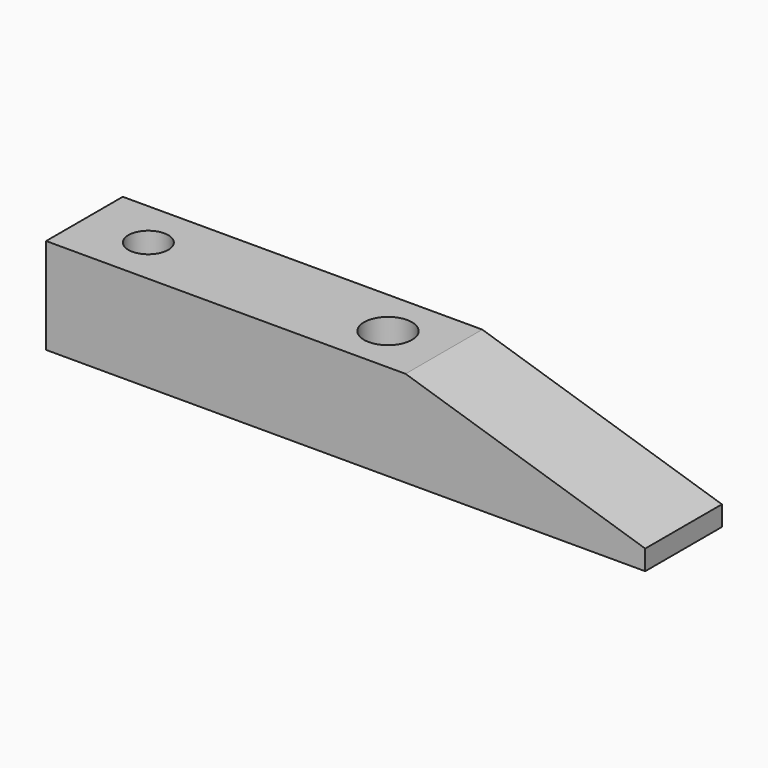
from build123d import *

# Parameters (mm, degrees)
F1_DEPTH = 12
F2_R     = 2.5
F2_R_2   = 3
F3_DEPTH = 25


with BuildPart() as f1:
    # F0 (on Front) → F1 (new body)
    with BuildSketch(Plane.XZ):
        Polygon((-6.717227, 43.916327), (-51.717227, 43.916327), (-51.717227, 31.916327), (23.282773, 31.916327), (23.282773, 34.416327), align=None)
    extrude(amount=F1_DEPTH)

    # F2 (on face) → F3 (cut)
    with BuildSketch(Plane.XY.offset(43.916327)):
        with Locations((-43.717227, -6)):
            Circle(F2_R)
        with Locations((-13.717227, -6)):
            Circle(F2_R_2)
    extrude(amount=-F3_DEPTH, mode=Mode.SUBTRACT)


solid = f1.part
